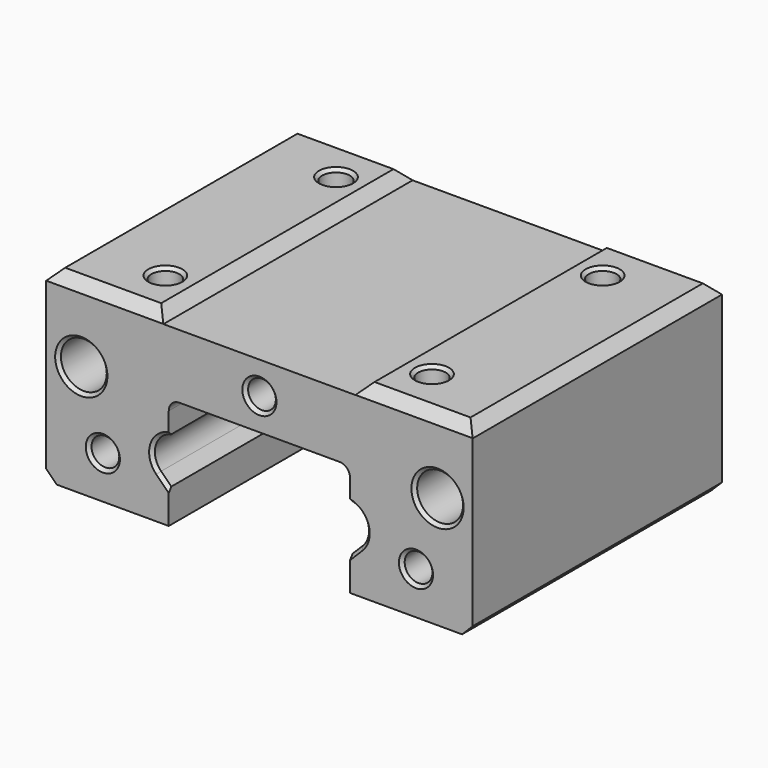
from build123d import *

# Parameters (mm, degrees)
SKETCH034_R     = 2.15
PAD006_DEPTH    = 14.6
SKETCH035_R     = 1.3
HOLE_DEPTH      = 8.7
HOLE_TIPS_R     = 1.3
SKETCH036_R     = 1.3
HOLE001_DEPTH   = 8.7
HOLE001_TIPS_R  = 1.3
SKETCH037_R     = 1.3
HOLE002_DEPTH   = 9.218881
HOLE002_TIPS_R  = 1.3
CHAMFER_SIZE    = 0.99
CHAMFER011_SIZE = 0.3


with BuildPart() as part:
    # Sketch034 → Pad006 (new body, symmetric)
    with BuildSketch(Plane.XZ):
        with BuildLine():
            Line((-9.454213, -1.414214), (-8.5, -2.368427))
            Line((-8.5, -2.368427), (-8.5, -5.5))
            Line((-8.5, -5.5), (-19, -5.5))
            Line((-19, -5.5), (-20, -4.5))
            Line((-20, -4.5), (-20, 11))
            Line((-20, 11), (-19, 12))
            Line((-19, 12), (-10, 12))
            Line((-10, 12), (-9, 11))
            Line((-9, 11), (9, 11))
            Line((9, 11), (10, 12))
            Line((10, 12), (19, 12))
            Line((19, 12), (20, 11))
            Line((20, 11), (20, -4.5))
            Line((20, -4.5), (19, -5.5))
            Line((19, -5.5), (8.5, -5.5))
            Line((8.5, -5.5), (8.5, -2.368427))
            Line((8.5, -2.368427), (9.454214, -1.414214))
            ThreePointArc((9.454214, -1.414214), (9.963946, 0.546289), (8.5, 1.946381))
            Line((8.5, 1.946381), (8.5, 4))
            ThreePointArc((8.5, 4), (8.207107, 4.707107), (7.5, 5))
            Line((7.5, 5), (-7.5, 5))
            ThreePointArc((-7.5, 5), (-8.207107, 4.707107), (-8.5, 4))
            Line((-8.5, 4), (-8.5, 1.946381))
            ThreePointArc((-8.5, 1.946381), (-9.963946, 0.546289), (-9.454213, -1.414214))
        make_face()
        with Locations((-16.700254, 5)):
            Circle(SKETCH034_R, mode=Mode.SUBTRACT)
        with Locations((16.700254, 5)):
            Circle(SKETCH034_R, mode=Mode.SUBTRACT)
    extrude(amount=PAD006_DEPTH, both=True)

    # Sketch035 → Hole (cut)
    with BuildSketch(Plane.XZ.offset(14.6)):
        with Locations((-14.679528, -1.5)):
            Circle(SKETCH035_R)
        with Locations((14.679528, -1.5)):
            Circle(SKETCH035_R)
        with Locations((0, 8)):
            Circle(SKETCH035_R)
    extrude(amount=-HOLE_DEPTH, mode=Mode.SUBTRACT)

    # Hole tips → Hole tip 1 section 0
    with BuildSketch(Plane.XZ.offset(5.9), mode=Mode.PRIVATE) as hole_tip_1_s0:
        with Locations((-14.679528, -1.5)):
            Circle(HOLE_TIPS_R)
    loft([hole_tip_1_s0.sketch, Vertex(-14.679528, -4.6, -1.5)], mode=Mode.SUBTRACT)

    # Hole tips → Hole tip 2 section 0
    with BuildSketch(Plane.XZ.offset(5.9), mode=Mode.PRIVATE) as hole_tip_2_s0:
        with Locations((14.679528, -1.5)):
            Circle(HOLE_TIPS_R)
    loft([hole_tip_2_s0.sketch, Vertex(14.679528, -4.6, -1.5)], mode=Mode.SUBTRACT)

    # Hole tips → Hole tip 3 section 0
    with BuildSketch(Plane.XZ.offset(5.9), mode=Mode.PRIVATE) as hole_tip_3_s0:
        with Locations((0, 8)):
            Circle(HOLE_TIPS_R)
    loft([hole_tip_3_s0.sketch, Vertex(0, -4.6, 8)], mode=Mode.SUBTRACT)

    # Sketch036 → Hole001 (cut)
    with BuildSketch(Plane(origin=(0, 14.6, 0), x_dir=(-1, 0, 0), z_dir=(0, 1, 0))):
        with Locations((14.679528, -1.5)):
            Circle(SKETCH036_R)
        with Locations((-14.679528, -1.5)):
            Circle(SKETCH036_R)
        with Locations((0, 8)):
            Circle(SKETCH036_R)
    extrude(amount=-HOLE001_DEPTH, mode=Mode.SUBTRACT)

    # Hole001 tips → Hole001 tip 1 section 0
    with BuildSketch(Plane(origin=(0, 5.9, 0), x_dir=(-1, 0, 0), z_dir=(0, 1, 0)), mode=Mode.PRIVATE) as hole001_tip_1_s0:
        with Locations((14.679528, -1.5)):
            Circle(HOLE001_TIPS_R)
    loft([hole001_tip_1_s0.sketch, Vertex(-14.679528, 4.6, -1.5)], mode=Mode.SUBTRACT)

    # Hole001 tips → Hole001 tip 2 section 0
    with BuildSketch(Plane(origin=(0, 5.9, 0), x_dir=(-1, 0, 0), z_dir=(0, 1, 0)), mode=Mode.PRIVATE) as hole001_tip_2_s0:
        with Locations((-14.679528, -1.5)):
            Circle(HOLE001_TIPS_R)
    loft([hole001_tip_2_s0.sketch, Vertex(14.679528, 4.6, -1.5)], mode=Mode.SUBTRACT)

    # Hole001 tips → Hole001 tip 3 section 0
    with BuildSketch(Plane(origin=(0, 5.9, 0), x_dir=(-1, 0, 0), z_dir=(0, 1, 0)), mode=Mode.PRIVATE) as hole001_tip_3_s0:
        with Locations((0, 8)):
            Circle(HOLE001_TIPS_R)
    loft([hole001_tip_3_s0.sketch, Vertex(0, 4.6, 8)], mode=Mode.SUBTRACT)

    # Sketch037 → Hole002 (cut)
    with BuildSketch(Plane.XY.offset(12)):
        with Locations((-12.5, 10)):
            Circle(SKETCH037_R)
        with Locations((12.5, 10)):
            Circle(SKETCH037_R)
        with Locations((12.5, -10)):
            Circle(SKETCH037_R)
        with Locations((-12.5, -10)):
            Circle(SKETCH037_R)
    extrude(amount=-HOLE002_DEPTH, mode=Mode.SUBTRACT)

    # Hole002 tips → Hole002 tip 1 section 0
    with BuildSketch(Plane.XY.offset(2.781119), mode=Mode.PRIVATE) as hole002_tip_1_s0:
        with Locations((-12.5, 10)):
            Circle(HOLE002_TIPS_R)
    loft([hole002_tip_1_s0.sketch, Vertex(-12.5, 10, 2)], mode=Mode.SUBTRACT)

    # Hole002 tips → Hole002 tip 2 section 0
    with BuildSketch(Plane.XY.offset(2.781119), mode=Mode.PRIVATE) as hole002_tip_2_s0:
        with Locations((12.5, 10)):
            Circle(HOLE002_TIPS_R)
    loft([hole002_tip_2_s0.sketch, Vertex(12.5, 10, 2)], mode=Mode.SUBTRACT)

    # Hole002 tips → Hole002 tip 3 section 0
    with BuildSketch(Plane.XY.offset(2.781119), mode=Mode.PRIVATE) as hole002_tip_3_s0:
        with Locations((12.5, -10)):
            Circle(HOLE002_TIPS_R)
    loft([hole002_tip_3_s0.sketch, Vertex(12.5, -10, 2)], mode=Mode.SUBTRACT)

    # Hole002 tips → Hole002 tip 4 section 0
    with BuildSketch(Plane.XY.offset(2.781119), mode=Mode.PRIVATE) as hole002_tip_4_s0:
        with Locations((-12.5, -10)):
            Circle(HOLE002_TIPS_R)
    loft([hole002_tip_4_s0.sketch, Vertex(-12.5, -10, 2)], mode=Mode.SUBTRACT)

    # Chamfer
    chamfer_edges = [part.edges().sort_by_distance(p)[0] for p in [
        (14.5, 14.6, 12),
        (-14.5, 14.6, 12),
        (-14.5, -14.6, 12),
        (14.5, -14.6, 12),
    ]]
    chamfer(chamfer_edges, length=CHAMFER_SIZE)

    # Chamfer011
    chamfer011_edges = [part.edges().sort_by_distance(p)[0] for p in [
        (-13.8, -10, 12),
        (-13.8, 10, 12),
        (11.2, 10, 12),
        (11.2, -10, 12),
        (13.379528, -14.6, -1.5),
        (-15.979528, -14.6, -1.5),
        (-1.3, -14.6, 8),
        (8.977107, -14.6, -1.89132),
        (9.963946, -14.6, 0.546289),
        (-8.977107, -14.6, -1.89132),
        (-9.963946, -14.6, 0.546289),
        (14.550254, -14.6, 5),
        (-18.850254, -14.6, 5),
        (-8.977107, 14.6, -1.89132),
        (-9.963946, 14.6, 0.546289),
        (8.977107, 14.6, -1.89132),
        (9.963946, 14.6, 0.546289),
        (15.979528, 14.6, -1.5),
        (1.3, 14.6, 8),
        (-13.379528, 14.6, -1.5),
        (-18.850254, 14.6, 5),
        (14.550254, 14.6, 5),
    ]]
    chamfer(chamfer011_edges, length=CHAMFER011_SIZE)


solid = part.part
